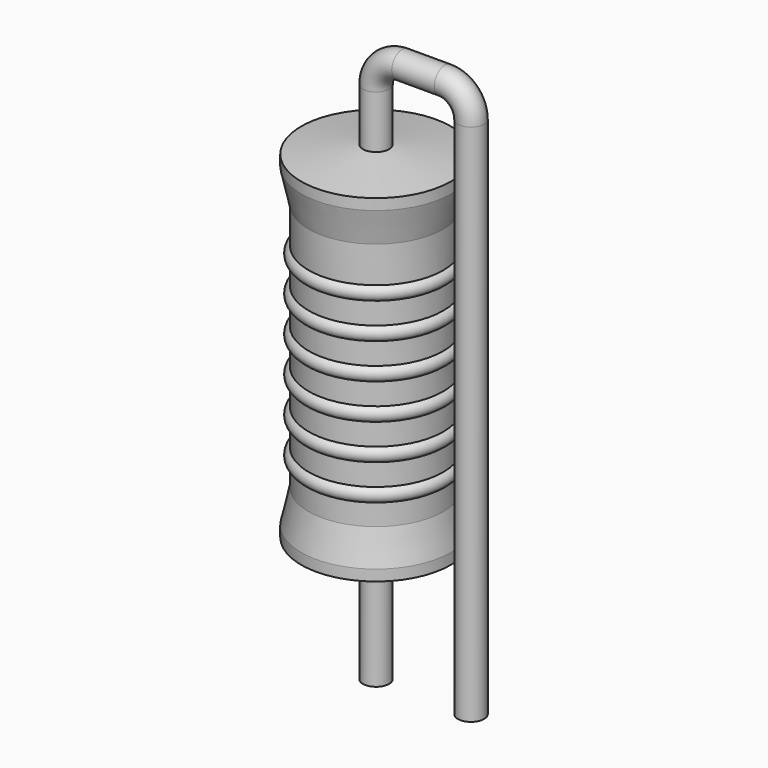
from build123d import *

# Parameters (mm, degrees)
SKETCH_R = 0.35


with BuildPart() as revolution:
    # Sketch002 → Revolution (revolve)
    with BuildSketch(Plane.XZ):
        Polygon((0, 0.1), (0, 9.6), (0.2625, 9.6), (2, 9.3625), (2, 9.07), (1.8, 8.175), (1.8, 1.525), (2, 0.63), (2, 0.3375), (0.2625, 0.1), align=None)
    revolve(axis=Axis((0, 0, 0), (0, 0, 1)))


with BuildPart() as revolution001:
    # Sketch003 → Revolution001 (revolve)
    with BuildSketch(Plane.XZ):
        with BuildLine():
            Line((1.6, 7.775), (1.6, 1.525))
            Line((1.6, 1.525), (1.72, 1.525))
            Line((1.72, 1.525), (1.72, 2.075))
            ThreePointArc((1.72, 2.075), (1.92, 2.275), (1.72, 2.475))
            Line((1.72, 2.475), (1.72, 3.025))
            ThreePointArc((1.72, 3.025), (1.92, 3.225), (1.72, 3.425))
            Line((1.72, 3.425), (1.72, 3.975))
            ThreePointArc((1.72, 3.975), (1.92, 4.175), (1.72, 4.375))
            Line((1.72, 4.375), (1.72, 4.925))
            ThreePointArc((1.72, 4.925), (1.92, 5.125), (1.72, 5.325))
            Line((1.72, 5.325), (1.72, 5.875))
            ThreePointArc((1.72, 5.875), (1.92, 6.075), (1.72, 6.275))
            Line((1.72, 6.275), (1.72, 6.825))
            ThreePointArc((1.72, 6.825), (1.92, 7.025), (1.72, 7.225))
            Line((1.72, 7.775), (1.72, 7.225))
            Line((1.6, 7.775), (1.72, 7.775))
        make_face()
    revolve(axis=Axis((0, 0, 0), (0, 0, 1)))


with BuildPart() as obj1:
    # Sweep: sweep along a path in Sketch001
    with BuildLine(Plane.XZ) as sweep_path:
        Line((0, -3), (0, 11))
        ThreePointArc((0, 11), (0.205029, 11.494979), (0.700012, 11.7))
        Line((0.700012, 11.7), (1.84, 11.7))
        ThreePointArc((1.84, 11.7), (2.334975, 11.494975), (2.54, 11))
        Line((2.54, 11), (2.54, -3))
    # Sketch → Sweep (sweep)
    with BuildSketch(Plane.XY.offset(-2)):
        Circle(SKETCH_R)
    sweep(path=sweep_path.line)

    # obj1: union Revolution, Revolution001
    add(revolution.part)
    add(revolution001.part)


solid = obj1.part
